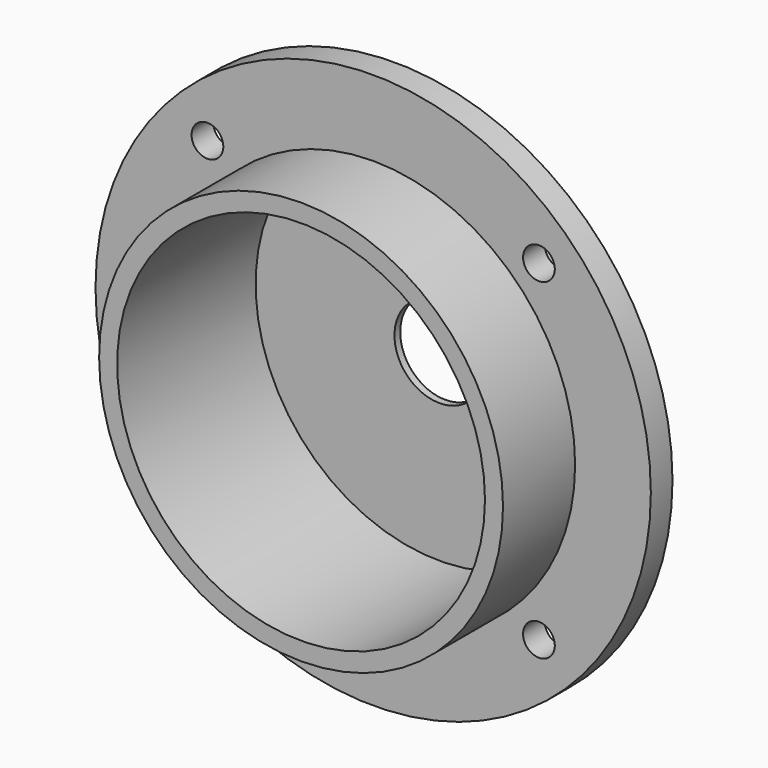
from build123d import *

# Parameters (mm, degrees)
F0_R     = 56
F0_R_2   = 51
F1_DEPTH = 50
F0_R_3   = 77
F2_DEPTH = 25
F3_DEPTH = 17.5
F5_D     = 8.8
F6_R     = 51
F6_R_2   = 12.5
F7_DEPTH = 2


with BuildPart() as f1:
    # F0 (on Front) → F1 (new body)
    with BuildSketch(Plane.XZ):
        Circle(F0_R)
        Circle(F0_R_2, mode=Mode.SUBTRACT)
    extrude(amount=F1_DEPTH)

    # F0 (on Front) → F2 (join)
    with BuildSketch(Plane.XZ):
        Circle(F0_R_3)
        Circle(F0_R, mode=Mode.SUBTRACT)
    extrude(amount=F2_DEPTH)

    # F0 (on Front) → F3 (cut)
    with BuildSketch(Plane.XZ):
        Circle(F0_R_3)
        Circle(F0_R, mode=Mode.SUBTRACT)
    extrude(amount=F3_DEPTH, mode=Mode.SUBTRACT)

    # F5 (through all)
    with Locations(Plane.XZ.offset(25)):
        with Locations((-45.962, 45.962), (45.9618815542, 45.962), (45.9618815542, -45.962), (-45.962, -45.962)):
            Hole(F5_D / 2)

    # F6 (on Front) → F7 (join)
    with BuildSketch(Plane.XZ):
        Circle(F6_R)
        Circle(F6_R_2, mode=Mode.SUBTRACT)
    extrude(amount=F7_DEPTH)


solid = f1.part
